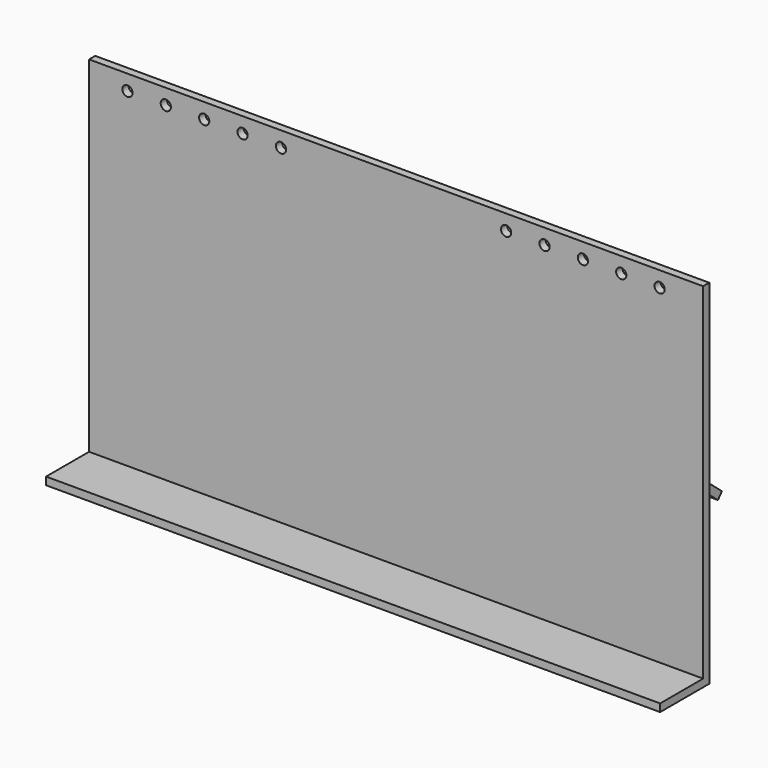
from build123d import *

# Parameters (mm, degrees)
F0_W     = 508
F0_H     = 285.75
F0_R     = 4.233333
F1_DEPTH = 6.35
F0_H_2   = 6.35
F2_DEPTH = 50.8
F3_W     = 330.2
F3_H     = 165.1
F4_DEPTH = 152.4
F6_DEPTH = 419.101


with BuildPart() as f1:
    # F0 (on Front) → F1 (new body)
    with BuildSketch(Plane.XZ):
        with Locations((-0.770811, -23.840043)):
            Rectangle(F0_W, F0_H)
        with Locations((-223.020811, 106.334957)):
            Circle(F0_R, mode=Mode.SUBTRACT)
        with Locations((-191.270811, 106.334957)):
            Circle(F0_R, mode=Mode.SUBTRACT)
        with Locations((-159.520811, 106.334957)):
            Circle(F0_R, mode=Mode.SUBTRACT)
        with Locations((-127.770811, 106.334957)):
            Circle(F0_R, mode=Mode.SUBTRACT)
        with Locations((-96.020811, 106.334957)):
            Circle(F0_R, mode=Mode.SUBTRACT)
        with Locations((90.245856, 106.334957)):
            Circle(F0_R, mode=Mode.SUBTRACT)
        with Locations((121.995856, 106.334957)):
            Circle(F0_R, mode=Mode.SUBTRACT)
        with Locations((153.745856, 106.334957)):
            Circle(F0_R, mode=Mode.SUBTRACT)
        with Locations((185.495856, 106.334957)):
            Circle(F0_R, mode=Mode.SUBTRACT)
        with Locations((217.245856, 106.334957)):
            Circle(F0_R, mode=Mode.SUBTRACT)
    extrude(amount=F1_DEPTH)

    # F0 (on Front) → F2 (join)
    with BuildSketch(Plane.XZ):
        with Locations((-0.770811, -169.890043)):
            Rectangle(F0_W, F0_H_2)
    extrude(amount=F2_DEPTH)

    # F3 (on face) → F4 (join)
    with BuildSketch(Plane.XZ):
        with Locations((-0.770811, -90.515043)):
            Rectangle(F3_W, F3_H)
    extrude(amount=-F4_DEPTH)

    # F5 (on face) → F6 (cut, through all)
    with BuildSketch(Plane.YZ.offset(164.329189)):
        Polygon((124.205639, -112.185949), (120.123938, -117.050331), (0, -173.065043), (152.4, -173.065043), (152.4, -7.965043), (0, -7.965043), align=None)
        Polygon((120.123938, -117.050331), (0, -16.254379), (0, -173.065043), align=None)
    extrude(amount=-F6_DEPTH, mode=Mode.SUBTRACT)


solid = f1.part
